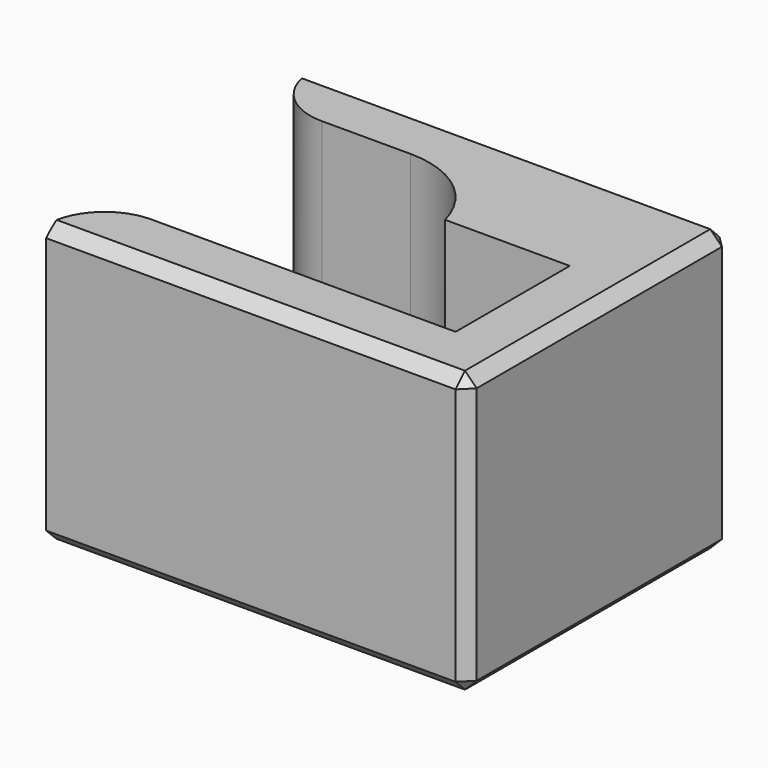
from build123d import *

# Parameters (mm, degrees)
F1_DEPTH = 6
F2_SIZE  = 0.5


with BuildPart() as f1:
    # F0 (on Top) → F1 (new body, symmetric)
    with BuildSketch(Plane.XY):
        with BuildLine():
            Line((9, 7.05), (-9, 7.05))
            ThreePointArc((-9, 7.05), (-8.267767, 5.282233), (-6.5, 4.55))
            Line((-6.5, 4.55), (-2.70464, 4.55))
            ThreePointArc((-2.70464, 4.55), (-0.25515, 3.712278), (1.168343, 1.55))
            Line((1.168343, 1.55), (6.5, 1.55))
            Line((6.5, 1.55), (6.5, -4.55))
            Line((6.5, -4.55), (-6.5, -4.55))
            ThreePointArc((-6.5, -4.55), (-8.267767, -5.282233), (-9, -7.05))
            Line((-9, -7.05), (9, -7.05))
            Line((9, -7.05), (9, 7.05))
        make_face()
    extrude(amount=F1_DEPTH, both=True)

    # F2
    f2_edges = [f1.edges().sort_by_distance(p)[0] for p in [
        (9, 7.05, 0),
        (9, -7.05, 0),
        (9, 0, 6),
        (9, 0, -6),
        (0, 7.05, -6),
        (0, 7.05, 6),
        (0, -7.05, 6),
        (0, -7.05, -6),
    ]]
    chamfer(f2_edges, length=F2_SIZE)


with BuildPart() as f3_1:
    # F3: copy of F1
    add(f1.part.moved(Location((26.4, 0, 0))))


solid = f1.part
